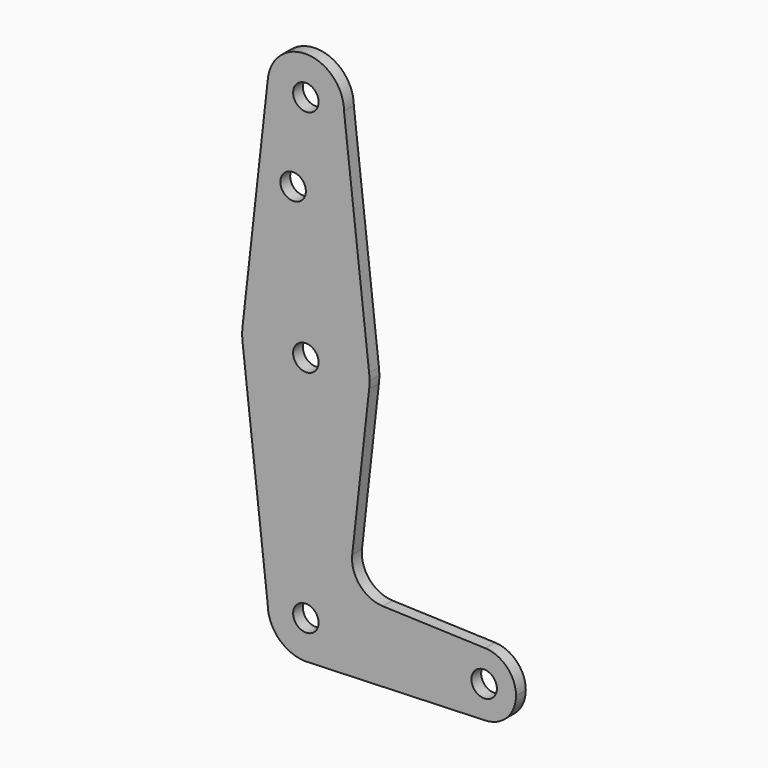
from build123d import *

# Parameters (mm, degrees)
F0_R     = 3.175
F1_DEPTH = 3.048


with BuildPart() as f1:
    # F0 (on Front) → F1 (new body)
    with BuildSketch(Plane.XZ):
        with BuildLine():
            Line((15.774826, 58.930585), (9.525, 114.3))
            ThreePointArc((9.525, 114.3), (-0.529987, 104.789756), (-9.466021, 115.358332))
            Line((-9.466021, 115.358332), (-15.774826, 58.930585))
            ThreePointArc((-15.774826, 58.930585), (0, 73.025), (15.774826, 58.930585))
        make_face()
        with Locations((-3.175, 93.6752)):
            Circle(F0_R, mode=Mode.SUBTRACT)
        with BuildLine():
            ThreePointArc((-9.466021, 115.358332), (-0.529987, 104.789756), (9.525, 114.3))
            ThreePointArc((9.525, 114.3), (0.529987, 123.810244), (-9.466021, 115.358332))
        make_face()
        with Locations((0, 114.3)):
            Circle(F0_R, mode=Mode.SUBTRACT)
        with BuildLine():
            ThreePointArc((15.875, 57.15), (15.849937, 58.0417), (15.774826, 58.930585))
            ThreePointArc((15.774826, 58.930585), (0, 73.025), (-15.774826, 58.930585))
            ThreePointArc((-15.774826, 58.930585), (-15.875, 57.15), (-15.774826, 55.369415))
            ThreePointArc((-15.774826, 55.369415), (0, 41.275), (15.774826, 55.369415))
            ThreePointArc((15.774826, 55.369415), (15.849937, 56.2583), (15.875, 57.15))
        make_face()
        with Locations((0, 57.15)):
            Circle(F0_R, mode=Mode.SUBTRACT)
        with BuildLine():
            ThreePointArc((15.774826, 55.369415), (0, 41.275), (-15.774826, 55.369415))
            Line((-15.774826, 55.369415), (-9.525, 0))
            ThreePointArc((-9.525, 0), (0, 9.525), (9.525, 0))
            ThreePointArc((9.525, 0), (6.970557, -6.491299), (0.677344, -9.500886))
            Line((0.677344, -9.500886), (44.732405, -7.932475))
            ThreePointArc((44.732405, -7.932475), (36.5125, 0), (44.732405, 7.932475))
            Line((44.732405, 7.932475), (19.17811, 8.842237))
            ThreePointArc((19.17811, 8.842237), (13.441875, 11.59354), (11.559994, 17.670758))
            Line((11.559994, 17.670758), (15.774826, 55.369415))
        make_face()
        with BuildLine():
            ThreePointArc((9.525, 0), (0, 9.525), (-9.525, 0))
            ThreePointArc((-9.525, 0), (-6.735192, -6.735192), (0, -9.525))
            Line((0, -9.525), (0.677344, -9.500886))
            ThreePointArc((0.677344, -9.500886), (6.970557, -6.491299), (9.525, 0))
        make_face()
        Circle(F0_R, mode=Mode.SUBTRACT)
        with BuildLine():
            ThreePointArc((52.3875, 0), (50.161633, 5.51191), (44.732405, 7.932475))
            ThreePointArc((44.732405, 7.932475), (36.5125, 0), (44.732405, -7.932475))
            ThreePointArc((44.732405, -7.932475), (50.161633, -5.51191), (52.3875, 0))
        make_face()
        with Locations((44.45, 0)):
            Circle(F0_R, mode=Mode.SUBTRACT)
    extrude(amount=F1_DEPTH)


solid = f1.part
